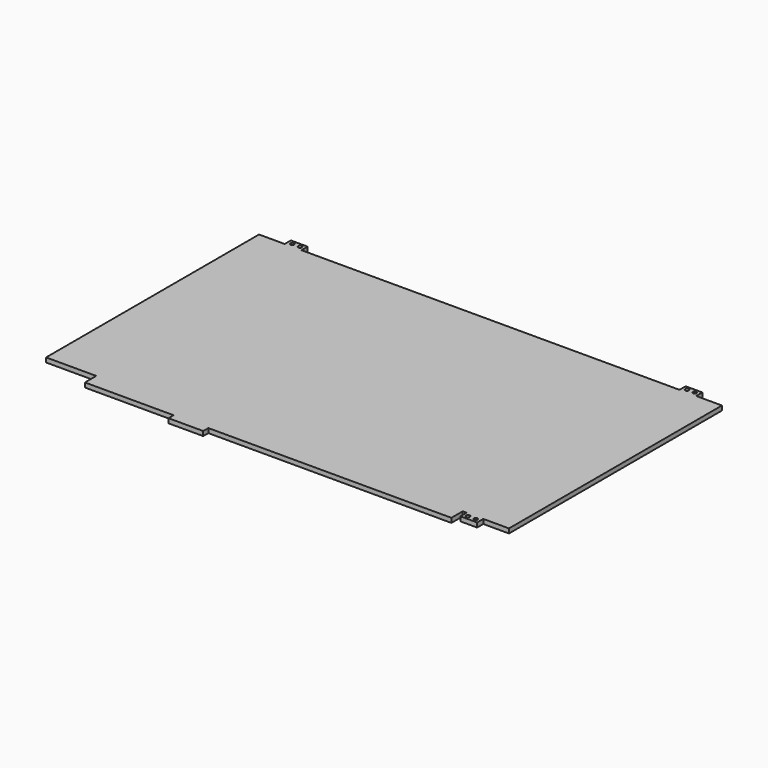
from build123d import *

# Parameters (mm, degrees)
F0_R     = 1.5
F0_W     = 27
F0_H     = 5
F2_DEPTH = 3.5


with BuildPart() as f2:
    # F0 (on Top) → F2 (new body)
    with BuildSketch(Plane.XY):
        Polygon((-160, 103.5), (-180, 103.5), (-180, -103.5), (-141, -103.5), (-141, -114.5), (-72, -114.5), (-45, -114.5), (144, -114.5), (144, -103.5), (147, -103.5), (147, -109.5), (160, -109.5), (160, -103.5), (180, -103.5), (180, 103.5), (160, 103.5), (160, 109.5), (147, 109.5), (147, 103.5), (-147, 103.5), (-147, 109.5), (-160, 109.5), align=None)
        with Locations((150.5, -106.5)):
            Circle(F0_R, mode=Mode.SUBTRACT)
        with Locations((156.5, -106.5)):
            Circle(F0_R, mode=Mode.SUBTRACT)
        with Locations((-156.5, 106.5)):
            Circle(F0_R, mode=Mode.SUBTRACT)
        with Locations((-150.5, 106.5)):
            Circle(F0_R, mode=Mode.SUBTRACT)
        with Locations((150.5, 106.5)):
            Circle(F0_R, mode=Mode.SUBTRACT)
        with Locations((156.5, 106.5)):
            Circle(F0_R, mode=Mode.SUBTRACT)
        with Locations((-58.5, -117)):
            Rectangle(F0_W, F0_H)
    extrude(amount=F2_DEPTH)


solid = f2.part
